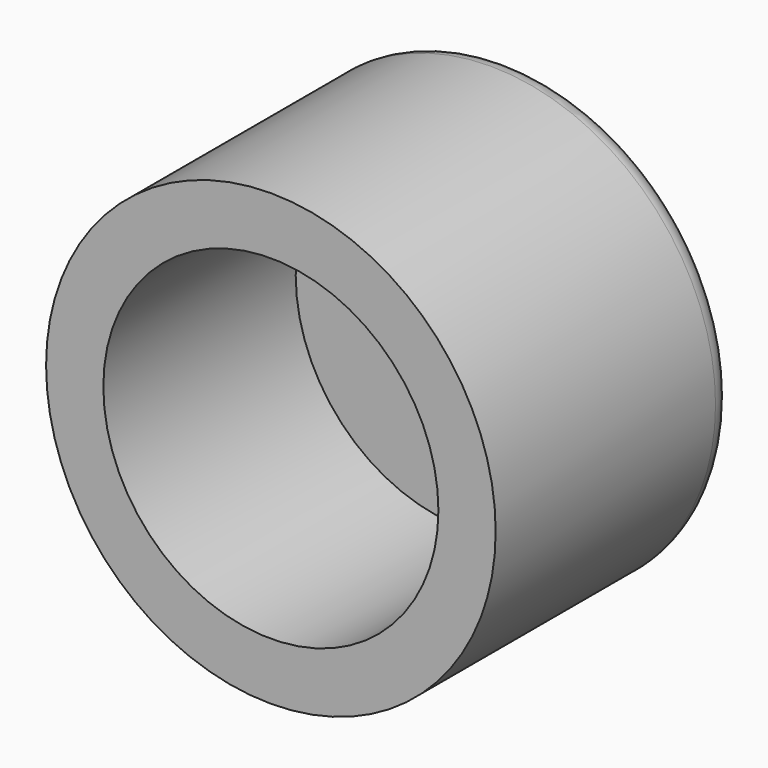
from build123d import *

# Parameters (mm, degrees)
F0_R     = 9.8155
F1_DEPTH = 13
F2_R     = 1
F3_T     = -2.5


with BuildPart() as f1:
    # F0 (on Front) → F1 (new body)
    with BuildSketch(Plane.XZ):
        Circle(F0_R)
    extrude(amount=F1_DEPTH)

    # F2
    f2_edges = [f1.edges().sort_by_distance(p)[0] for p in [
        (-9.8155, 0, 0),
    ]]
    fillet(f2_edges, radius=F2_R)

    # F3
    f3_openings = [f1.faces().sort_by_distance(p)[0] for p in [
        (0, -13, 0),
    ]]
    offset(amount=F3_T, openings=f3_openings)


solid = f1.part
